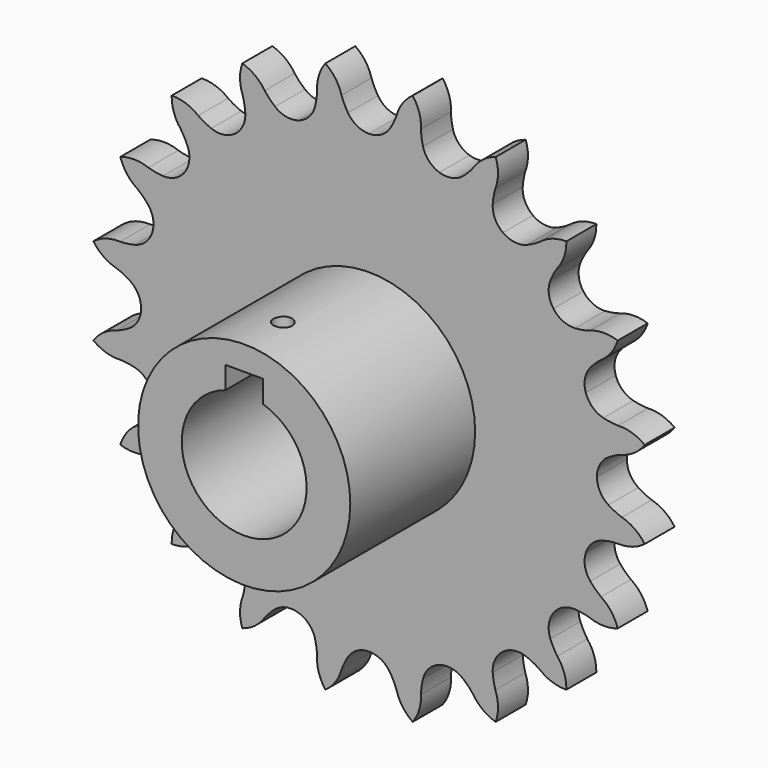
from build123d import *

# Parameters (mm, degrees)
F0_R     = 17
F1_DEPTH = 25
F3_R     = 1.5
F4_DEPTH = 5.5
F6_DEPTH = 6
F7_DEPTH = 25


with BuildPart() as f1:
    # F0 (on Front) → F1 (new body)
    with BuildSketch(Plane.XZ):
        Circle(F0_R)
        with BuildLine():
            ThreePointArc((3, 9.539392), (0, -10), (-3, 9.539392))
            Line((-3, 9.539392), (-3, 13.105938))
            Line((-3, 13.105938), (0, 13.105938))
            Line((0, 13.105938), (3, 13.105938))
            Line((3, 13.105938), (3, 9.539392))
        make_face(mode=Mode.SUBTRACT)
    extrude(amount=F1_DEPTH)

    # F3 (on offset) → F4 (cut)
    with BuildSketch(Plane.XY.offset(17)):
        with Locations((0, -17.277054)):
            Circle(F3_R)
    extrude(amount=-F4_DEPTH, mode=Mode.SUBTRACT)

    # F5 (on Front) → F6 (join)
    with BuildSketch(Plane.XZ):
        with BuildLine():
            ThreePointArc((-3.368706, 38.35925), (-3.948428, 39.399685), (-4.404379, 40.5))
            ThreePointArc((-4.404379, 40.5), (-5.377239, 42.557528), (-6.994138, 44.159251))
            ThreePointArc((-6.994138, 44.159251), (-8.036941, 42.136273), (-8.326375, 39.878817))
            ThreePointArc((-8.326375, 39.878817), (-8.419994, 38.691459), (-8.64983, 37.522802))
            ThreePointArc((-8.64983, 37.522802), (-9.606946, 35.785908), (-11.283234, 34.726222))
            ThreePointArc((-11.283234, 34.726222), (-13.262246, 34.598229), (-15.05749, 35.440827))
            ThreePointArc((-15.05749, 35.440827), (-15.930351, 36.251196), (-16.704001, 37.156761))
            ThreePointArc((-16.704001, 37.156761), (-18.265058, 38.812956), (-20.29778, 39.836636))
            ThreePointArc((-20.29778, 39.836636), (-20.664409, 37.590426), (-20.242085, 35.354017))
            ThreePointArc((-20.242085, 35.354017), (-19.964208, 34.195843), (-19.821661, 33.013361))
            ThreePointArc((-19.821661, 33.013361), (-20.195202, 31.065711), (-21.461986, 29.539889))
            ThreePointArc((-21.461986, 29.539889), (-23.304586, 28.806611), (-25.272342, 29.053209))
            ThreePointArc((-25.272342, 29.053209), (-26.352899, 29.554187), (-27.36852, 30.176359))
            ThreePointArc((-27.36852, 30.176359), (-29.364965, 31.269102), (-31.614534, 31.614534))
            ThreePointArc((-31.614534, 31.614534), (-31.269102, 29.364965), (-30.176359, 27.36852))
            ThreePointArc((-30.176359, 27.36852), (-29.554187, 26.352899), (-29.053209, 25.272342))
            ThreePointArc((-29.053209, 25.272342), (-28.806611, 23.304586), (-29.539889, 21.461986))
            ThreePointArc((-29.539889, 21.461986), (-31.065711, 20.195202), (-33.013361, 19.821661))
            ThreePointArc((-33.013361, 19.821661), (-34.195843, 19.964208), (-35.354017, 20.242085))
            ThreePointArc((-35.354017, 20.242085), (-37.590426, 20.664409), (-39.836636, 20.29778))
            ThreePointArc((-39.836636, 20.29778), (-38.812956, 18.265058), (-37.156761, 16.704001))
            ThreePointArc((-37.156761, 16.704001), (-36.251196, 15.930351), (-35.440827, 15.05749))
            ThreePointArc((-35.440827, 15.05749), (-34.598229, 13.262246), (-34.726222, 11.283234))
            ThreePointArc((-34.726222, 11.283234), (-35.785908, 9.606946), (-37.522802, 8.64983))
            ThreePointArc((-37.522802, 8.64983), (-38.691459, 8.419994), (-39.878817, 8.326375))
            ThreePointArc((-39.878817, 8.326375), (-42.136273, 8.036941), (-44.159251, 6.994138))
            ThreePointArc((-44.159251, 6.994138), (-42.557528, 5.377239), (-40.5, 4.404379))
            ThreePointArc((-40.5, 4.404379), (-39.399685, 3.948428), (-38.35925, 3.368706))
            ThreePointArc((-38.35925, 3.368706), (-37.00313, 1.921705), (-36.513311, 0))
            ThreePointArc((-36.513311, 0), (-37.00313, -1.921705), (-38.35925, -3.368706))
            ThreePointArc((-38.35925, -3.368706), (-39.399685, -3.948428), (-40.5, -4.404379))
            ThreePointArc((-40.5, -4.404379), (-42.557528, -5.377239), (-44.159251, -6.994138))
            ThreePointArc((-44.159251, -6.994138), (-42.136273, -8.036941), (-39.878817, -8.326375))
            ThreePointArc((-39.878817, -8.326375), (-38.691459, -8.419994), (-37.522802, -8.64983))
            ThreePointArc((-37.522802, -8.64983), (-35.785908, -9.606946), (-34.726222, -11.283234))
            ThreePointArc((-34.726222, -11.283234), (-34.598229, -13.262246), (-35.440827, -15.05749))
            ThreePointArc((-35.440827, -15.05749), (-36.251196, -15.930351), (-37.156761, -16.704001))
            ThreePointArc((-37.156761, -16.704001), (-38.812956, -18.265058), (-39.836636, -20.29778))
            ThreePointArc((-39.836636, -20.29778), (-37.590426, -20.664409), (-35.354017, -20.242085))
            ThreePointArc((-35.354017, -20.242085), (-34.195843, -19.964208), (-33.013361, -19.821661))
            ThreePointArc((-33.013361, -19.821661), (-31.065711, -20.195202), (-29.539889, -21.461986))
            ThreePointArc((-29.539889, -21.461986), (-28.806611, -23.304586), (-29.053209, -25.272342))
            ThreePointArc((-29.053209, -25.272342), (-29.554187, -26.352899), (-30.176359, -27.36852))
            ThreePointArc((-30.176359, -27.36852), (-31.269102, -29.364965), (-31.614534, -31.614534))
            ThreePointArc((-31.614534, -31.614534), (-29.364965, -31.269102), (-27.36852, -30.176359))
            ThreePointArc((-27.36852, -30.176359), (-26.352899, -29.554187), (-25.272342, -29.053209))
            ThreePointArc((-25.272342, -29.053209), (-23.304586, -28.806611), (-21.461986, -29.539889))
            ThreePointArc((-21.461986, -29.539889), (-20.195202, -31.065711), (-19.821661, -33.013361))
            ThreePointArc((-19.821661, -33.013361), (-19.964208, -34.195843), (-20.242085, -35.354017))
            ThreePointArc((-20.242085, -35.354017), (-20.664409, -37.590426), (-20.29778, -39.836636))
            ThreePointArc((-20.29778, -39.836636), (-18.265058, -38.812956), (-16.704001, -37.156761))
            ThreePointArc((-16.704001, -37.156761), (-15.930351, -36.251196), (-15.05749, -35.440827))
            ThreePointArc((-15.05749, -35.440827), (-13.262246, -34.598229), (-11.283234, -34.726222))
            ThreePointArc((-11.283234, -34.726222), (-9.606946, -35.785908), (-8.64983, -37.522802))
            ThreePointArc((-8.64983, -37.522802), (-8.419994, -38.691459), (-8.326375, -39.878817))
            ThreePointArc((-8.326375, -39.878817), (-8.036941, -42.136273), (-6.994138, -44.159251))
            ThreePointArc((-6.994138, -44.159251), (-5.377239, -42.557528), (-4.404379, -40.5))
            ThreePointArc((-4.404379, -40.5), (-3.948428, -39.399685), (-3.368706, -38.35925))
            ThreePointArc((-3.368706, -38.35925), (-1.921705, -37.00313), (0, -36.513311))
            ThreePointArc((0, -36.513311), (1.921705, -37.00313), (3.368706, -38.35925))
            ThreePointArc((3.368706, -38.35925), (3.948428, -39.399685), (4.404379, -40.5))
            ThreePointArc((4.404379, -40.5), (5.377239, -42.557528), (6.994138, -44.159251))
            ThreePointArc((6.994138, -44.159251), (8.036941, -42.136273), (8.326375, -39.878817))
            ThreePointArc((8.326375, -39.878817), (8.419994, -38.691459), (8.64983, -37.522802))
            ThreePointArc((8.64983, -37.522802), (9.606946, -35.785908), (11.283234, -34.726222))
            ThreePointArc((11.283234, -34.726222), (13.262246, -34.598229), (15.05749, -35.440827))
            ThreePointArc((15.05749, -35.440827), (15.930351, -36.251196), (16.704001, -37.156761))
            ThreePointArc((16.704001, -37.156761), (18.265058, -38.812956), (20.29778, -39.836636))
            ThreePointArc((20.29778, -39.836636), (20.664409, -37.590426), (20.242085, -35.354017))
            ThreePointArc((20.242085, -35.354017), (19.964208, -34.195843), (19.821661, -33.013361))
            ThreePointArc((19.821661, -33.013361), (20.195202, -31.065711), (21.461986, -29.539889))
            ThreePointArc((21.461986, -29.539889), (23.304586, -28.806611), (25.272342, -29.053209))
            ThreePointArc((25.272342, -29.053209), (26.352899, -29.554187), (27.36852, -30.176359))
            ThreePointArc((27.36852, -30.176359), (29.364965, -31.269102), (31.614534, -31.614534))
            ThreePointArc((31.614534, -31.614534), (31.269102, -29.364965), (30.176359, -27.36852))
            ThreePointArc((30.176359, -27.36852), (29.554187, -26.352899), (29.053209, -25.272342))
            ThreePointArc((29.053209, -25.272342), (28.806611, -23.304586), (29.539889, -21.461986))
            ThreePointArc((29.539889, -21.461986), (31.065711, -20.195202), (33.013361, -19.821661))
            ThreePointArc((33.013361, -19.821661), (34.195843, -19.964208), (35.354017, -20.242085))
            ThreePointArc((35.354017, -20.242085), (37.590426, -20.664409), (39.836636, -20.29778))
            ThreePointArc((39.836636, -20.29778), (38.812956, -18.265058), (37.156761, -16.704001))
            ThreePointArc((37.156761, -16.704001), (36.251196, -15.930351), (35.440827, -15.05749))
            ThreePointArc((35.440827, -15.05749), (34.598229, -13.262246), (34.726222, -11.283234))
            ThreePointArc((34.726222, -11.283234), (35.785908, -9.606946), (37.522802, -8.64983))
            ThreePointArc((37.522802, -8.64983), (38.691459, -8.419994), (39.878817, -8.326375))
            ThreePointArc((39.878817, -8.326375), (42.136273, -8.036941), (44.159251, -6.994138))
            ThreePointArc((44.159251, -6.994138), (42.557528, -5.377239), (40.5, -4.404379))
            ThreePointArc((40.5, -4.404379), (39.399685, -3.948428), (38.35925, -3.368706))
            ThreePointArc((38.35925, -3.368706), (37.00313, -1.921705), (36.513311, 0))
            ThreePointArc((36.513311, 0), (37.00313, 1.921705), (38.35925, 3.368706))
            ThreePointArc((38.35925, 3.368706), (39.399685, 3.948428), (40.5, 4.404379))
            ThreePointArc((40.5, 4.404379), (42.557528, 5.377239), (44.159251, 6.994138))
            ThreePointArc((44.159251, 6.994138), (42.136273, 8.036941), (39.878817, 8.326375))
            ThreePointArc((39.878817, 8.326375), (38.691459, 8.419994), (37.522802, 8.64983))
            ThreePointArc((37.522802, 8.64983), (35.785908, 9.606946), (34.726222, 11.283234))
            ThreePointArc((34.726222, 11.283234), (34.598229, 13.262246), (35.440827, 15.05749))
            ThreePointArc((35.440827, 15.05749), (36.251196, 15.930351), (37.156761, 16.704001))
            ThreePointArc((37.156761, 16.704001), (38.812956, 18.265058), (39.836636, 20.29778))
            ThreePointArc((39.836636, 20.29778), (37.590426, 20.664409), (35.354017, 20.242085))
            ThreePointArc((35.354017, 20.242085), (34.195843, 19.964208), (33.013361, 19.821661))
            ThreePointArc((33.013361, 19.821661), (31.065711, 20.195202), (29.539889, 21.461986))
            ThreePointArc((29.539889, 21.461986), (28.806611, 23.304586), (29.053209, 25.272342))
            ThreePointArc((29.053209, 25.272342), (29.554187, 26.352899), (30.176359, 27.36852))
            ThreePointArc((30.176359, 27.36852), (31.269102, 29.364965), (31.614534, 31.614534))
            ThreePointArc((31.614534, 31.614534), (29.364965, 31.269102), (27.36852, 30.176359))
            ThreePointArc((27.36852, 30.176359), (26.352899, 29.554187), (25.272342, 29.053209))
            ThreePointArc((25.272342, 29.053209), (23.304586, 28.806611), (21.461986, 29.539889))
            ThreePointArc((21.461986, 29.539889), (20.195202, 31.065711), (19.821661, 33.013361))
            ThreePointArc((19.821661, 33.013361), (19.964208, 34.195843), (20.242085, 35.354017))
            ThreePointArc((20.242085, 35.354017), (20.664409, 37.590426), (20.29778, 39.836636))
            ThreePointArc((20.29778, 39.836636), (18.265058, 38.812956), (16.704001, 37.156761))
            ThreePointArc((16.704001, 37.156761), (15.930351, 36.251196), (15.05749, 35.440827))
            ThreePointArc((15.05749, 35.440827), (13.262246, 34.598229), (11.283234, 34.726222))
            ThreePointArc((11.283234, 34.726222), (9.606946, 35.785908), (8.64983, 37.522802))
            ThreePointArc((8.64983, 37.522802), (8.419994, 38.691459), (8.326375, 39.878817))
            ThreePointArc((8.326375, 39.878817), (8.036941, 42.136273), (6.994138, 44.159251))
            ThreePointArc((6.994138, 44.159251), (5.377239, 42.557528), (4.404379, 40.5))
            ThreePointArc((4.404379, 40.5), (3.948428, 39.399685), (3.368706, 38.35925))
            ThreePointArc((3.368706, 38.35925), (1.921705, 37.00313), (0, 36.513311))
            ThreePointArc((0, 36.513311), (-1.921705, 37.00313), (-3.368706, 38.35925))
        make_face()
    extrude(amount=-F6_DEPTH)

    # F6_face (on face) → F7 (cut)
    with BuildSketch(Plane(origin=(0, 0, 0.672136), x_dir=(1, 0, 0), z_dir=(0, -1, 0))):
        with BuildLine():
            Line((3, 12.433802), (-3, 12.433802))
            Line((-3, 12.433802), (-3, 8.867256))
            ThreePointArc((-3, 8.867256), (0, -10.672136), (3, 8.867256))
            Line((3, 8.867256), (3, 12.433802))
        make_face()
    extrude(amount=-F7_DEPTH, mode=Mode.SUBTRACT)


solid = f1.part
